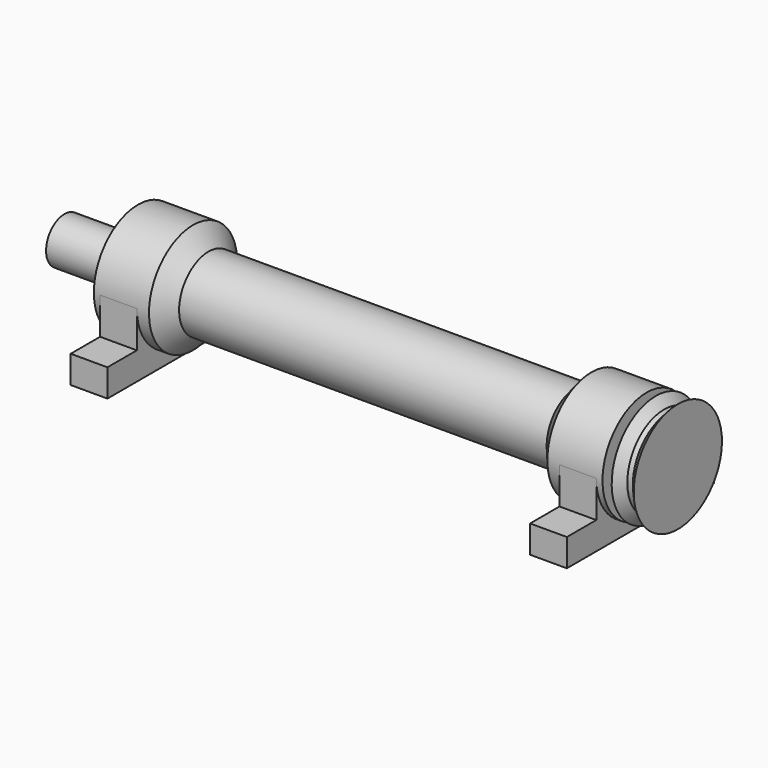
from build123d import *

# Parameters (mm, degrees)
F2_W     = 20
F2_H     = 100
F3_DEPTH = 35
F4_W     = 20
F4_H     = 20
F5_DEPTH = 20


with BuildPart() as f1:
    # F0 (on Front) → F1 (revolve)
    with BuildSketch(Plane.XZ):
        Polygon((-108.390996, 30), (-138.390996, 30), (-138.390996, 12.5), (-178.390996, 12.5), (-178.390996, 0), (155.390996, 0), (155.390996, 30), (150.890996, 25), (147.890996, 25), (143.390996, 30), (143.390996, 12.5), (138.390996, 12.5), (138.390996, 30), (108.390996, 30), (100, 20), (-100, 20), align=None)
        Polygon((-108.390996, 30), (-138.390996, 30), (-138.390996, 12.5), (-178.390996, 12.5), (-178.390996, 0), (155.390996, 0), (155.390996, 30), (150.890996, 25), (147.890996, 25), (143.390996, 30), (143.390996, 12.5), (138.390996, 12.5), (138.390996, 30), (108.390996, 30), (100, 20), (-100, 20), align=None)
    revolve(axis=Axis((-3.867105, 0, 0), (1, 0, 0)))

    # F2 (on Top) → F3 (join)
    with BuildSketch(Plane.XY):
        with Locations((-125, 0)):
            Rectangle(F2_W, F2_H)
        with Locations((125, 0)):
            Rectangle(F2_W, F2_H)
    extrude(amount=-F3_DEPTH)

    # F4 (on face) → F5 (cut)
    with BuildSketch(Plane.XY):
        with Locations((-125, 40)):
            Rectangle(F4_W, F4_H)
        with Locations((-125, -40)):
            Rectangle(F4_W, F4_H)
        with Locations((125, -40)):
            Rectangle(F4_W, F4_H)
        with Locations((125, 40)):
            Rectangle(F4_W, F4_H)
    extrude(amount=-F5_DEPTH, mode=Mode.SUBTRACT)


solid = f1.part
